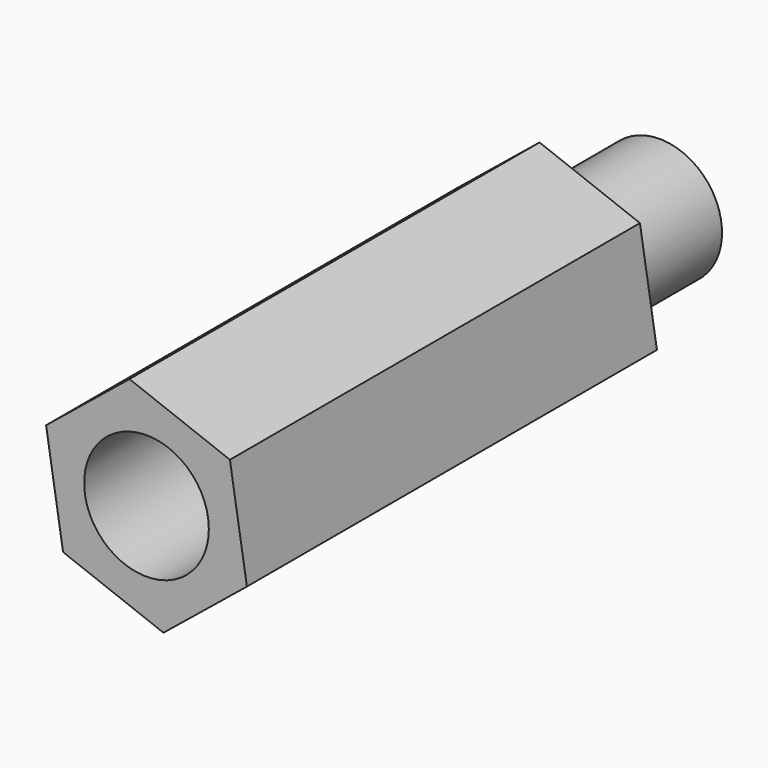
from build123d import *

# Parameters (mm, degrees)
F1_DEPTH = 11.92
F2_R     = 1.45
F3_DEPTH = 3
F4_R     = 1.45
F5_DEPTH = 3


with BuildPart() as f1:
    # F0 (on Front) → F1 (new body)
    with BuildSketch(Plane.XZ):
        Polygon((2.335372, -0.892208), (1.940361, 1.576388), (-0.395011, 2.468596), (-2.335372, 0.892208), (-1.940361, -1.576388), (0.395011, -2.468596), align=None)
    extrude(amount=F1_DEPTH)

    # F2 (on face) → F3 (join)
    with BuildSketch(Plane(origin=(0, 0, 0), x_dir=(-1, 0, 0), z_dir=(0, 1, 0))):
        Circle(F2_R)
    extrude(amount=F3_DEPTH)

    # F4 (on face) → F5 (cut)
    with BuildSketch(Plane.XZ.offset(11.92)):
        Circle(F4_R)
    extrude(amount=-F5_DEPTH, mode=Mode.SUBTRACT)


solid = f1.part
